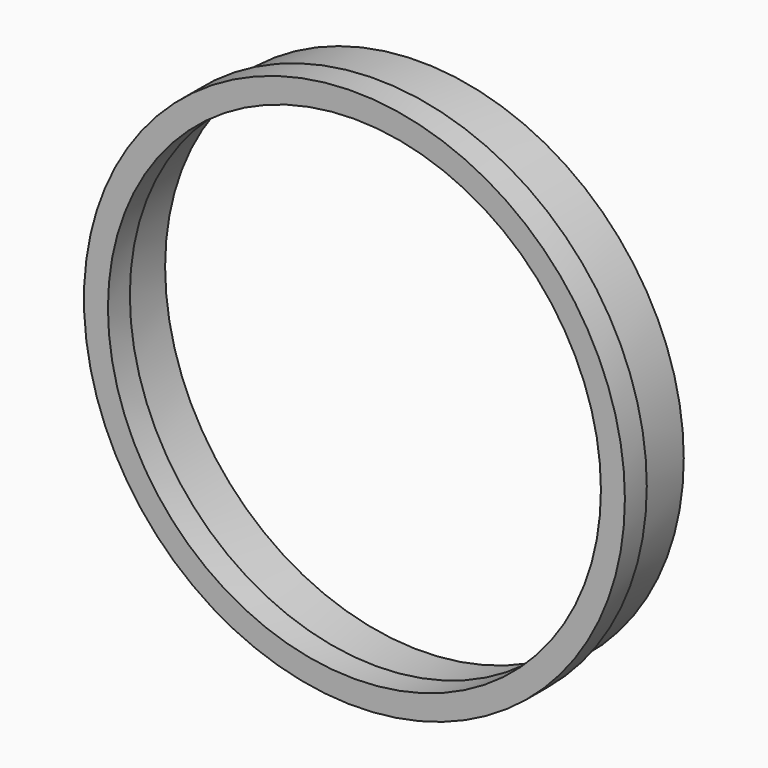
from build123d import *

# Parameters (mm, degrees)
F0_R     = 250.825
F0_R_2   = 228.6
F1_DEPTH = 76.2
F2_R     = 250.825
F2_R_2   = 244.475
F3_DEPTH = 50.8
F4_R     = 5.08
F5_R     = 236.5375
F5_R_2   = 228.6
F6_DEPTH = 50.8


with BuildPart() as f1:
    # F0 (on Front) → F1 (new body)
    with BuildSketch(Plane.XZ):
        Circle(F0_R)
        Circle(F0_R_2, mode=Mode.SUBTRACT)
    extrude(amount=F1_DEPTH)

    # F2 (on face) → F3 (cut)
    with BuildSketch(Plane(origin=(0, 0, 0), x_dir=(-1, 0, 0), z_dir=(0, 1, 0))):
        Circle(F2_R)
        Circle(F2_R_2, mode=Mode.SUBTRACT)
    extrude(amount=-F3_DEPTH, mode=Mode.SUBTRACT)

    # F4
    f4_edges = [f1.edges().sort_by_distance(p)[0] for p in [
        (244.475, -50.8, 0),
    ]]
    fillet(f4_edges, radius=F4_R)

    # F5 (on face) → F6 (cut)
    with BuildSketch(Plane(origin=(0, 0, 0), x_dir=(-1, 0, 0), z_dir=(0, 1, 0))):
        Circle(F5_R)
        Circle(F5_R_2, mode=Mode.SUBTRACT)
    extrude(amount=-F6_DEPTH, mode=Mode.SUBTRACT)


solid = f1.part
